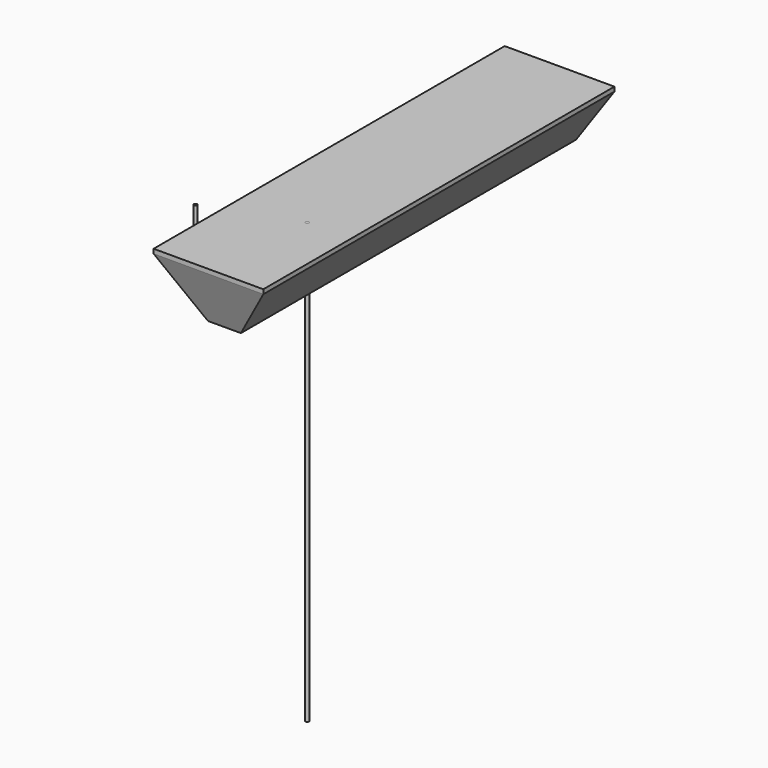
from build123d import *

# Parameters (mm, degrees)
F0_W      = 50
F0_H      = 200
F1_DEPTH  = 25
F3_DEPTH  = 200.001
F5_DEPTH  = 50.001
F6_W      = 50
F6_H      = 200
F7_DEPTH  = 2
F8_R      = 0.8
F9_DEPTH  = 200
F10_R     = 0.75
F11_DEPTH = 20


with BuildPart() as f1:
    # F0 (on Top) → F1 (new body)
    with BuildSketch(Plane.XY):
        with Locations((25, 100)):
            Rectangle(F0_W, F0_H)
    extrude(amount=F1_DEPTH)

    # F2 (on face) → F3 (cut, through all)
    with BuildSketch(Plane.XZ):
        Polygon((17.5, 0), (0, 25), (0, 0), align=None)
        Polygon((50, 25), (32.5, 0), (50, 0), align=None)
    extrude(amount=-F3_DEPTH, mode=Mode.SUBTRACT)

    # F4 (on Right) → F5 (cut, through all)
    with BuildSketch(Plane.YZ):
        Polygon((0, 25), (0, 0), (9.0992558567, 0), align=None)
    extrude(amount=F5_DEPTH, mode=Mode.SUBTRACT)


with BuildPart() as f7:
    # F6 (on face) → F7 (new body)
    with BuildSketch(Plane.XY.offset(25)):
        with Locations((25, 100)):
            Rectangle(F6_W, F6_H)
    extrude(amount=F7_DEPTH)


with BuildPart() as f9:
    # F8 (on face) → F9 (new body)
    with BuildSketch(Plane.XY.offset(27)):
        with Locations((30, 50)):
            Circle(F8_R)
    extrude(amount=-F9_DEPTH)


with BuildPart() as f11:
    # F10 (on Top) → F11 (new body)
    with BuildSketch(Plane.XY):
        with Locations((-17.920082435, 46.270493418)):
            Circle(F10_R)
    extrude(amount=F11_DEPTH)


solid = Compound([f1.part, f7.part, f9.part, f11.part])
